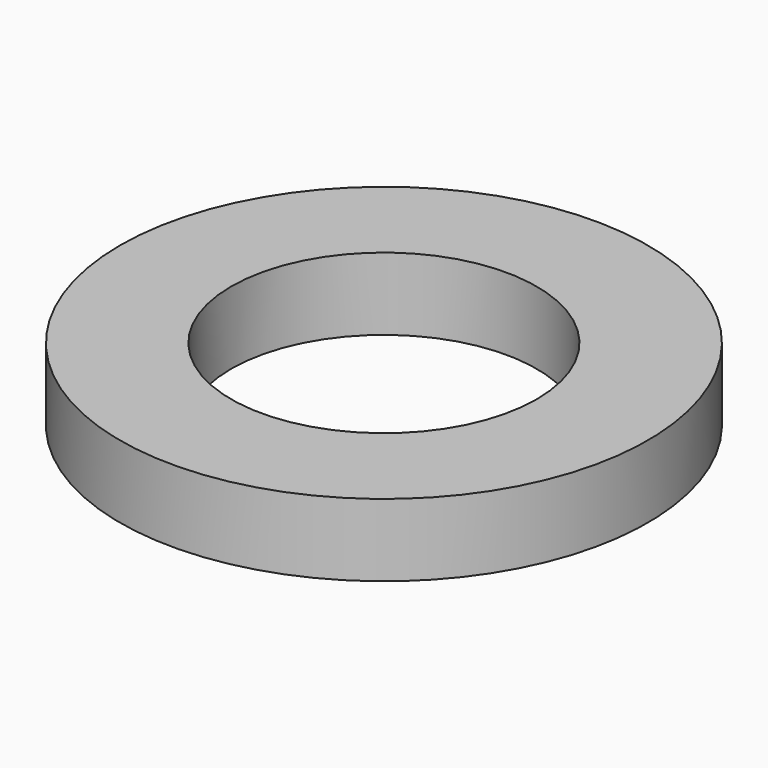
from build123d import *

# Parameters (mm, degrees)
F2_DEPTH = 25
F3_DEPTH = 0.2


with BuildPart() as f1:
    # F0 (on Front) → F1 (revolve)
    with BuildSketch(Plane.XZ):
        Polygon((-7.9381447285, 11.0953617841), (-22.9123719037, 11.0953617841), (-22.9123719037, 1.533505274), (-7.9381447285, 1.533505274), (12.6288654283, 1.533505274), (12.6288654283, 6.314433529), (-7.9381447285, 6.314433529), align=None)
    revolve(axis=Axis((12.6288654283, 0, 3.9239694015), (0, 0, -1)))

    # F2 (cut): a face of the model
    f2_faces = [f1.faces().sort_by_distance(p)[0] for p in [
        (12.6288654283, 0, 6.314433529),
    ]]
    extrude(f2_faces, amount=-F2_DEPTH, mode=Mode.SUBTRACT)

    # F3 (add): faces of the model
    f3_faces = [f1.faces().sort_by_distance(p)[0] for p in [
        (47.164844763, 0, 1.533505274),
        (34.2011335822, 0, 11.0953617841),
    ]]
    extrude(f3_faces, amount=-F3_DEPTH, dir=(0, 0, -1))


solid = f1.part
